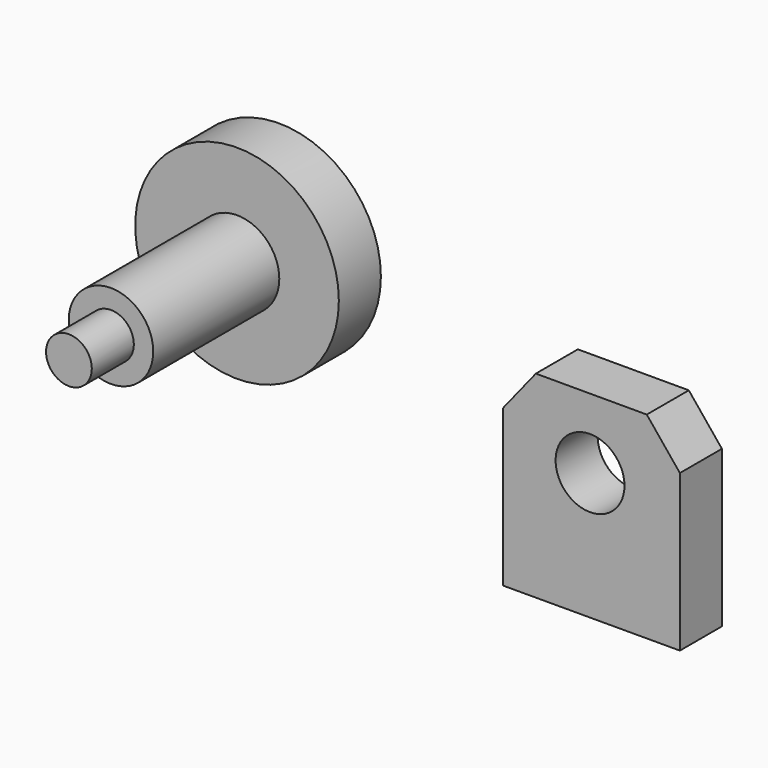
from build123d import *

# Parameters (mm, degrees)
F0_R     = 8.325002
F1_DEPTH = 12.7
F2_R     = 10.219437
F2_R_2   = 5.532315
F3_DEPTH = 50.8
F2_R_3   = 24.617675
F4_DEPTH = 12.7
F5_DEPTH = 63.5


with BuildPart() as f1:
    # F0 (on Front) → F1 (new body)
    with BuildSketch(Plane.XZ):
        Polygon((56.083199, 0), (29.260799, 0), (21.336, -9.906), (21.336, -47.701199), (64.089097, -47.635771), (64.089097, -9.840573), align=None)
        with Locations((42.367201, -16.9164)):
            Circle(F0_R, mode=Mode.SUBTRACT)
    extrude(amount=F1_DEPTH)


with BuildPart() as f3:
    # F2 (on Front) → F3 (new body)
    with BuildSketch(Plane.XZ):
        with Locations((-42.9768, 0)):
            Circle(F2_R)
        with Locations((-42.9768, 0)):
            Circle(F2_R_2, mode=Mode.SUBTRACT)
    extrude(amount=F3_DEPTH)

    # F2 (on Front) → F4 (join)
    with BuildSketch(Plane.XZ):
        with Locations((-42.9768, 0)):
            Circle(F2_R_3)
        with Locations((-42.9768, 0)):
            Circle(F2_R, mode=Mode.SUBTRACT)
    extrude(amount=F4_DEPTH)

    # F2 (on Front) → F5 (join)
    with BuildSketch(Plane.XZ):
        with Locations((-42.9768, 0)):
            Circle(F2_R_2)
    extrude(amount=F5_DEPTH)


solid = Compound([f1.part, f3.part])
